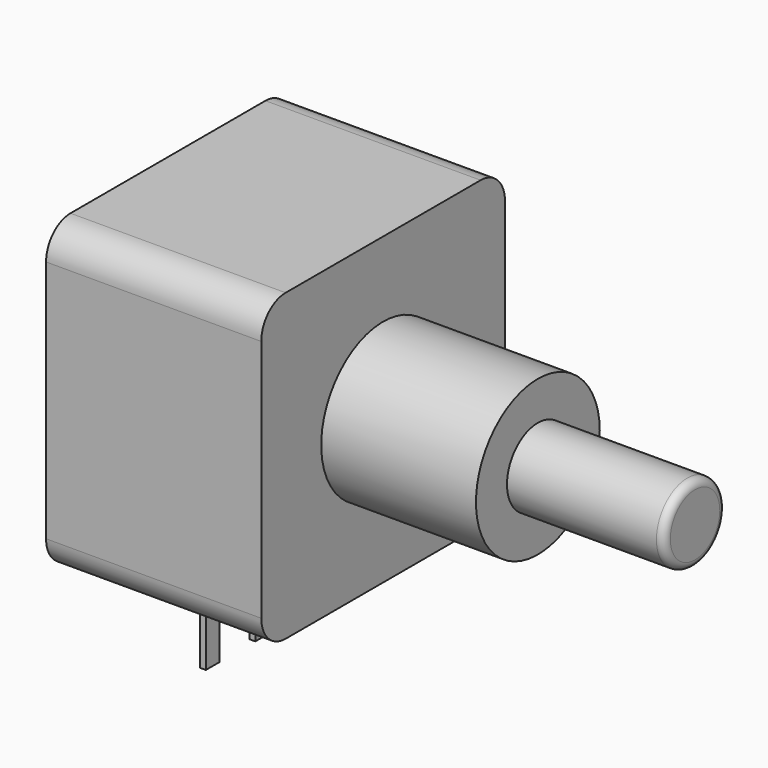
from build123d import *

# Parameters (mm, degrees)
SKETCH001_R       = 3.175
PAD001_DEPTH      = 6.35
SKETCH003_W       = 0.233334
SKETCH003_H       = 0.7
PAD002_DEPTH      = 1
PAD002_DEPTH_BACK = 3
SKETCH004_R       = 1.585
PAD003_DEPTH      = 6.45
FILLET_R          = 0.317
SKETCH_W          = 12.5
SKETCH_H          = 12.5
PAD_DEPTH         = 8.83
FILLET001_R       = 1.25


with BuildPart() as pad001:
    # Sketch001 → Pad001 (new body)
    with BuildSketch(Plane.YZ.offset(11.43)):
        with Locations((2.54, 6.85)):
            Circle(SKETCH001_R)
    extrude(amount=-PAD001_DEPTH)


with BuildPart() as pad002:
    # Sketch003 → Pad002 (new body, two sides)
    with BuildSketch(Plane(origin=(0, 0, 0), x_dir=(-1, 0, 0), z_dir=(0, 0, 1))) as pad002_sk:
        Rectangle(SKETCH003_W, SKETCH003_H)
        with Locations((0, -2.54)):
            Rectangle(SKETCH003_W, SKETCH003_H)
        with Locations((0, -5.08)):
            Rectangle(SKETCH003_W, SKETCH003_H)
    extrude(amount=PAD002_DEPTH)
    extrude(pad002_sk.sketch, amount=-PAD002_DEPTH_BACK)


with BuildPart() as fillet_body:
    # Sketch004 → Pad003 (new body)
    with BuildSketch(Plane.YZ.offset(11.43)):
        with Locations((2.54, 6.85)):
            Circle(SKETCH004_R)
    extrude(amount=PAD003_DEPTH)

    # Fillet
    fillet_edges = [fillet_body.edges().sort_by_distance(p)[0] for p in [
        (17.88, 0.955, 6.85),
    ]]
    fillet(fillet_edges, radius=FILLET_R)


with BuildPart() as fillet001:
    # Sketch → Pad (new body)
    with BuildSketch(Plane.YZ.offset(-3.75)):
        with Locations((2.54, 6.85)):
            Rectangle(SKETCH_W, SKETCH_H)
    extrude(amount=PAD_DEPTH)

    # Fillet001
    fillet001_edges = [fillet001.edges().sort_by_distance(p)[0] for p in [
        (0.665, -3.71, 13.1),
        (0.665, 8.79, 13.1),
        (0.665, -3.71, 0.6),
        (0.665, 8.79, 0.6),
    ]]
    fillet(fillet001_edges, radius=FILLET001_R)


solid = Compound([pad001.part, pad002.part, fillet_body.part, fillet001.part])
